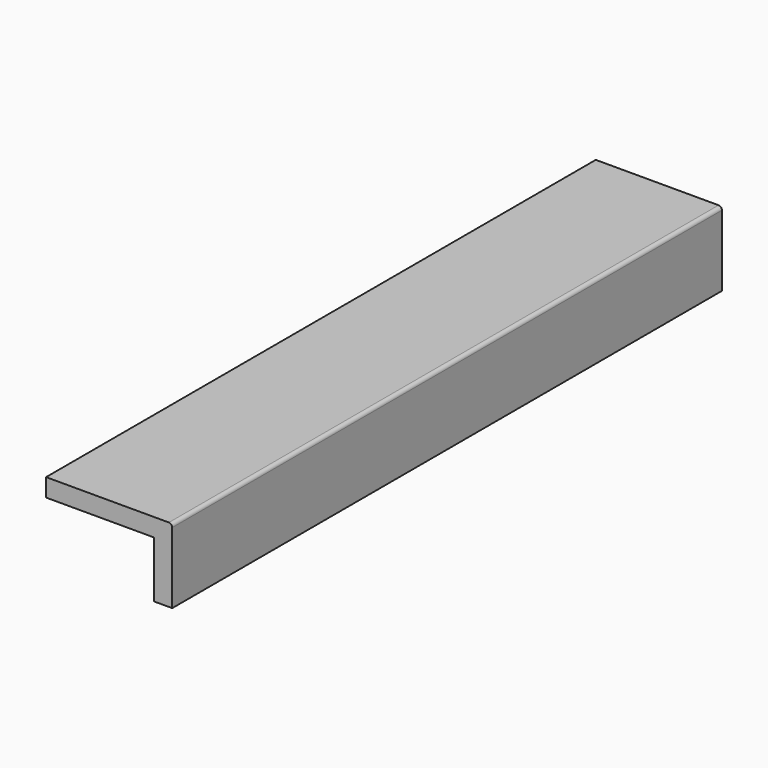
from build123d import *

# Parameters (mm, degrees)
F1_DEPTH = 1936.75


with BuildPart() as f1:
    # F0 (on Front) → F1 (new body)
    with BuildSketch(Plane.XZ):
        with BuildLine():
            Line((198.578329, 209.55), (-147.496671, 209.55))
            Line((-147.496671, 209.55), (-147.496671, 158.75))
            Line((-147.496671, 158.75), (157.303329, 158.75))
            Line((157.303329, 158.75), (157.303329, 0))
            Line((157.303329, 0), (208.103329, 0))
            Line((208.103329, 0), (208.103329, 200.025))
            ThreePointArc((208.103329, 200.025), (205.313521, 206.760192), (198.578329, 209.55))
        make_face()
    extrude(amount=F1_DEPTH)


solid = f1.part
